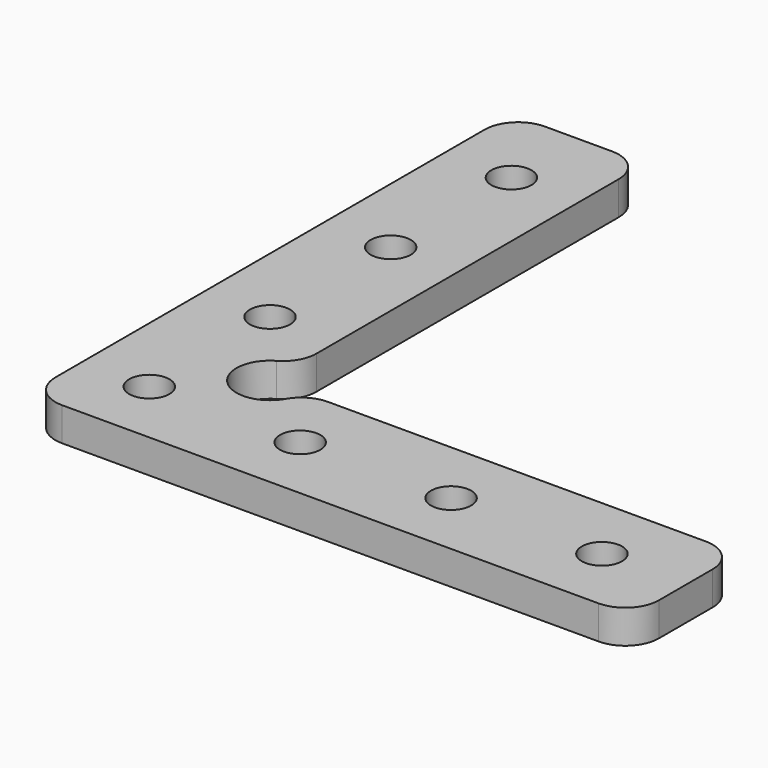
from build123d import *

# Parameters (mm, degrees)
SKETCH_W        = 90
SKETCH_H        = 90
PAD_DEPTH       = 5
SKETCH001_W     = 90
SKETCH001_H     = 90
POCKET_DEPTH    = 5
SKETCH002_R     = 5
POCKET001_DEPTH = 5
FILLET_R        = 5
SKETCH003_R     = 3
POCKET002_DEPTH = 5


with BuildPart() as part:
    # Sketch → Pad (new body)
    with BuildSketch(Plane.XY):
        with Locations((45, 45)):
            Rectangle(SKETCH_W, SKETCH_H)
    extrude(amount=PAD_DEPTH)

    # Sketch001 (on Face6 of Pad) → Pocket (cut)
    with BuildSketch(Plane.XY.offset(5)):
        with Locations((65, 65)):
            Rectangle(SKETCH001_W, SKETCH001_H)
    extrude(amount=-POCKET_DEPTH, mode=Mode.SUBTRACT)

    # Sketch002 (on Face4 of Pocket) → Pocket001 (cut)
    with BuildSketch(Plane.XY.offset(5)):
        with Locations((20, 20)):
            Circle(SKETCH002_R)
    extrude(amount=-POCKET001_DEPTH, mode=Mode.SUBTRACT)

    # Fillet
    fillet_edges = [part.edges().sort_by_distance(p)[0] for p in [
        (20, 25, 2.5),
        (25, 20, 2.5),
        (0, 0, 2.5),
        (90, 20, 2.5),
        (90, 0, 2.5),
        (20, 90, 2.5),
        (0, 90, 2.5),
    ]]
    fillet(fillet_edges, radius=FILLET_R)

    # Sketch003 (on Face2 of Fillet) → Pocket002 (cut)
    with BuildSketch(Plane(origin=(0, 0, 0), x_dir=(1, 0, 0), z_dir=(0, 0, -1))):
        with Locations((32.5, -10)):
            Circle(SKETCH003_R)
        with Locations((55, -10)):
            Circle(SKETCH003_R)
        with Locations((77.5, -10)):
            Circle(SKETCH003_R)
        with Locations((10, -32.5)):
            Circle(SKETCH003_R)
        with Locations((10, -55)):
            Circle(SKETCH003_R)
        with Locations((10, -77.5)):
            Circle(SKETCH003_R)
        with Locations((10, -10)):
            Circle(SKETCH003_R)
    extrude(amount=-POCKET002_DEPTH, mode=Mode.SUBTRACT)


solid = part.part
